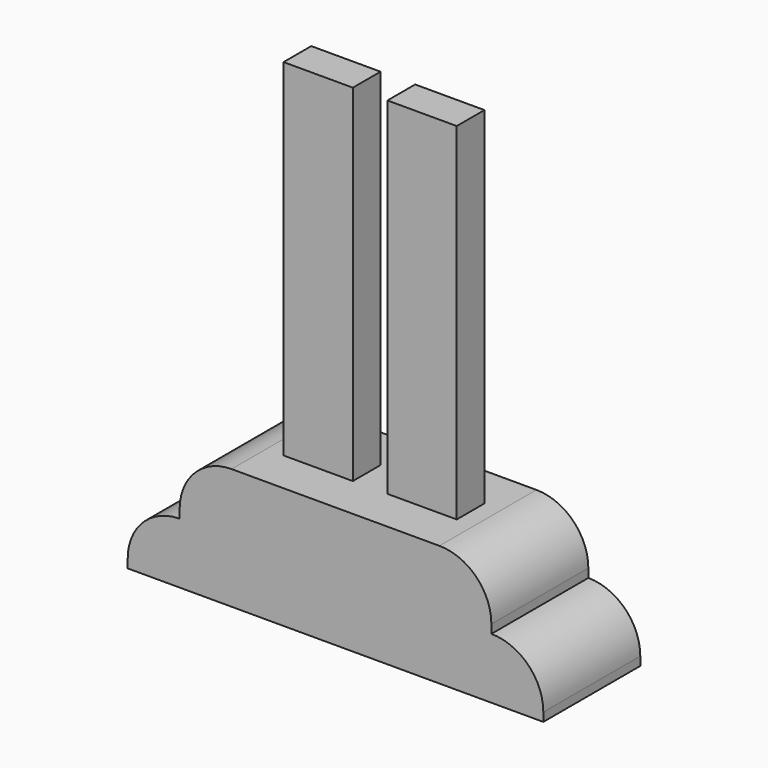
from build123d import *

# Parameters (mm, degrees)
F1_DEPTH      = 88.9
F2_W          = 50.8
F2_H          = 25.4
F3_DEPTH      = 88.901
F4_DEPTH      = 254
F4_DEPTH_BACK = 88.9
F5_W          = 5.08
F5_H          = 25.4
F6_DEPTH      = 63.5
F7_W          = 5.08
F7_H          = 25.4
F8_DEPTH      = 63.5
F6_FACE_W     = 5.08
F6_FACE_H     = 25.4
F9_W          = 5.08
F9_H          = 25.4
F8_FACE_W     = 5.08
F8_FACE_H     = 25.4
F10_DEPTH     = 63.5


with BuildPart() as f1:
    # F0 (on Front) → F1 (new body)
    with BuildSketch(Plane.XZ):
        with BuildLine():
            Line((-152.4, -44.45), (152.4, -44.45))
            Line((152.4, -44.45), (152.4, -38.1))
            ThreePointArc((152.4, -38.1), (141.2407683632, -11.1592316368), (114.3, 0))
            Line((114.3, 0), (114.3, 6.35))
            ThreePointArc((114.3, 6.35), (103.1407683632, 33.2907683632), (76.2, 44.45))
            Line((76.2, 44.45), (-76.2, 44.45))
            ThreePointArc((-76.2, 44.45), (-103.1407683632, 33.2907683632), (-114.3, 6.35))
            Line((-114.3, 6.35), (-114.3, 0))
            ThreePointArc((-114.3, 0), (-141.2407683632, -11.1592316368), (-152.4, -38.1))
            Line((-152.4, -38.1), (-152.4, -44.45))
        make_face()
    extrude(amount=F1_DEPTH)

    # F2 (on face) → F3 (cut, through all)
    with BuildSketch(Plane.XY.offset(44.45)):
        with Locations((-38.1, -44.45)):
            Rectangle(F2_W, F2_H)
        with Locations((38.1, -44.45)):
            Rectangle(F2_W, F2_H)
    extrude(amount=-F3_DEPTH, mode=Mode.SUBTRACT)


with BuildPart() as f4:
    # F2 (on face) → F4 (new body, two sides)
    with BuildSketch(Plane.XY.offset(44.45)) as f4_sk:
        with Locations((-38.1, -44.45)):
            Rectangle(F2_W, F2_H)
    extrude(amount=F4_DEPTH)
    extrude(f4_sk.sketch, amount=-F4_DEPTH_BACK)

    # F5 (on face) → F6 (cut)
    with BuildSketch(Plane(origin=(0, 0, -44.45), x_dir=(1, 0, 0), z_dir=(0, 0, -1))):
        with Locations((-50.8, 44.45)):
            Rectangle(F5_W, F5_H)
        with Locations((-25.4, 44.45)):
            Rectangle(F5_W, F5_H)
    extrude(amount=-F6_DEPTH, mode=Mode.SUBTRACT)


with BuildPart() as f4b:
    # F2 (on face) → F4, piece 2 (new body, two sides)
    with BuildSketch(Plane.XY.offset(44.45)) as f4_2_sk:
        with Locations((38.1, -44.45)):
            Rectangle(F2_W, F2_H)
    extrude(amount=F4_DEPTH)
    extrude(f4_2_sk.sketch, amount=-F4_DEPTH_BACK)

    # F7 (on face) → F8 (cut)
    with BuildSketch(Plane(origin=(0, 0, -44.45), x_dir=(1, 0, 0), z_dir=(0, 0, -1))):
        with Locations((25.4, 44.45)):
            Rectangle(F7_W, F7_H)
        with Locations((50.8, 44.45)):
            Rectangle(F7_W, F7_H)
    extrude(amount=-F8_DEPTH, mode=Mode.SUBTRACT)


with BuildPart() as f10:
    # F6_face (on face) + F9 (on face) + F8_face (on face) → F10 (new body)
    with BuildSketch(Plane(origin=(-50.8, -44.45, 19.05), x_dir=(1, 0, 0), z_dir=(0, 0, -1))):
        with Locations((25.4, 0)):
            Rectangle(F6_FACE_W, F6_FACE_H)
    with BuildSketch(Plane(origin=(0, 0, 19.05), x_dir=(1, 0, 0), z_dir=(0, 0, -1))):
        with Locations((-50.8, 44.45)):
            Rectangle(F9_W, F9_H)
    with BuildSketch(Plane(origin=(25.4, -44.45, 19.05), x_dir=(1, 0, 0), z_dir=(0, 0, -1))):
        Rectangle(F8_FACE_W, F8_FACE_H)
        with Locations((25.4, 0)):
            Rectangle(F8_FACE_W, F8_FACE_H)
    extrude(amount=F10_DEPTH)


solid = Compound([f1.part, f4.part, f4b.part, f10.part])
